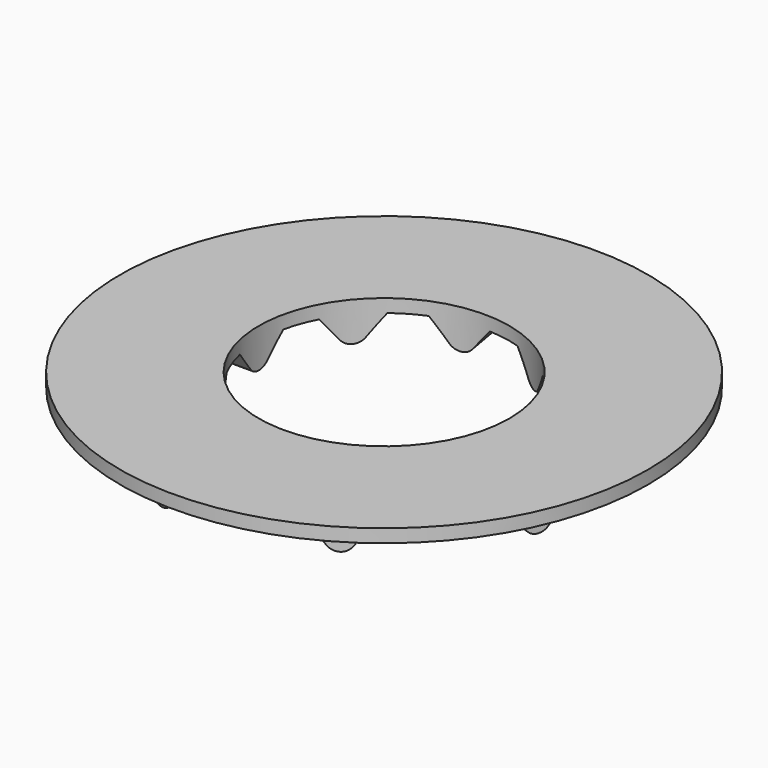
from build123d import *

# Parameters (mm, degrees)
F0_R     = 20
F0_R_2   = 9.5
F1_DEPTH = 1
F6_DEPTH = 5
F7_COUNT = 9
F8_R     = 1
F9_DEPTH = 5


with BuildPart() as f1:
    # F0 (on Top) → F1 (new body)
    with BuildSketch(Plane.XY):
        Circle(F0_R)
        Circle(F0_R_2, mode=Mode.SUBTRACT)
        Circle(F0_R_2)
    extrude(amount=F1_DEPTH)

    # F5 (on line) → F6 (join, symmetric)
    with BuildSketch(Plane(origin=(-12.5, 0, 0), x_dir=(0, -1, 0), z_dir=(-1, 0, 0))):
        Polygon((2.0567882708, 0), (-2.0567882708, 0), (0, -2.5773376692), align=None)
    extrude(amount=F6_DEPTH, both=True)

    # F7: F1 ×9 about axis
    f7_axis = Axis((0, 0, 0), (0, 0, 1))


with BuildPart() as f1_1:
    add(f1.part)
    for i in range(1, F7_COUNT):
        add(f1.part.rotate(f7_axis, i * 360 / F7_COUNT))

    # F8
    f8_edges = [f1_1.edges().sort_by_distance(p)[0] for p in [
        (-12.5, 0, -2.577338),
        (-9.575556, 8.034845, -2.577338),
        (-2.170602, 12.310097, -2.577338),
        (6.25, 10.825318, -2.577338),
        (11.746158, 4.275252, -2.577338),
        (11.746158, -4.275252, -2.577338),
        (6.25, -10.825318, -2.577338),
        (-2.170602, -12.310097, -2.577338),
        (-9.575556, -8.034845, -2.577338),
    ]]
    fillet(f8_edges, radius=F8_R)

    # F0 (on Top) → F9 (cut, symmetric)
    with BuildSketch(Plane.XY):
        Circle(F0_R_2)
    extrude(amount=F9_DEPTH, both=True, mode=Mode.SUBTRACT)


solid = f1_1.part
